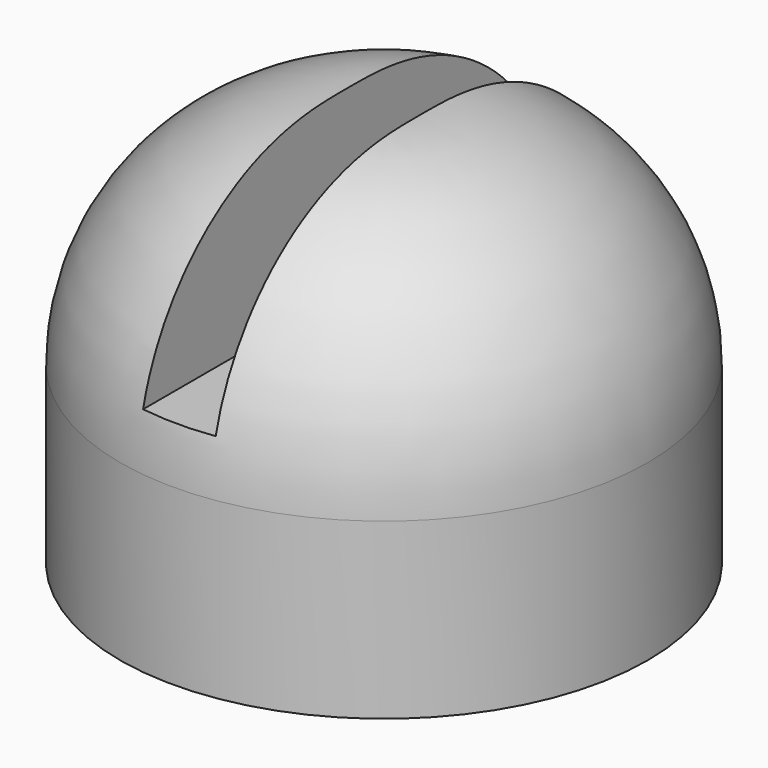
from build123d import *

# Parameters (mm, degrees)
F0_R      = 45.5235141672
F1_DEPTH  = 20
F2_DEPTH  = 50
F3_R      = 40
F4_W      = 12.5344563276
F4_H      = 31.0147441924
F5_DEPTH  = 100
F7_DEPTH  = 100
F8_R      = 2.5
F9_DEPTH  = 4
F10_R     = 2.5
F11_DEPTH = 4


with BuildPart() as f1:
    # F0 (on Top) → F1 (new body)
    with BuildSketch(Plane.XY):
        Circle(F0_R)
    extrude(amount=F1_DEPTH)

    # F2 (add): a face of the model
    f2_faces = [f1.faces().sort_by_distance(p)[0] for p in [
        (0, 0, 20),
    ]]
    extrude(f2_faces, amount=F2_DEPTH)

    # F3
    f3_edges = [f1.edges().sort_by_distance(p)[0] for p in [
        (-45.523514, 0, 70),
    ]]
    fillet(f3_edges, radius=F3_R)

    # F4 (on Front) → F5 (cut)
    with BuildSketch(Plane.XZ):
        with Locations((-0.0651595183, 54.6367447823)):
            Rectangle(F4_W, F4_H)
    extrude(amount=-F5_DEPTH, mode=Mode.SUBTRACT)

    # F6 (on face) → F7 (cut)
    with BuildSketch(Plane(origin=(0, 0, 0), x_dir=(-1, 0, 0), z_dir=(0, 1, 0))):
        with BuildLine():
            ThreePointArc((-5.5235141672, 70), (-5.8628036122, 69.9985610075), (-6.2020686455, 69.9942441336))
            Line((-6.2020686455, 69.9942441336), (-6.2020686455, 39.1293726861))
            Line((-6.2020686455, 39.1293726861), (6.3323876821, 39.1293726861))
            Line((6.3323876821, 39.1293726861), (6.3323876821, 69.9918207092))
            add(Edge.make_bspline(
                [(6.3323876821, 69.9918207092), (6.1301968719, 69.9959102152), (5.927978494, 69.9986367384), (5.7257463298, 70), (5.5235141672, 70)],
                knots=[0.6079316836, 0.6079316836, 0.6079316836, 0.6079316836, 0.6079316836, 1, 1, 1, 1, 1], degree=4))
            Line((5.5235141672, 70), (-5.5235141672, 70))
        make_face()
    extrude(amount=-F7_DEPTH, mode=Mode.SUBTRACT)

    # F8 (on face) → F9 (cut)
    with BuildSketch(Plane.YZ.offset(-6.3323876821)):
        with Locations((0, 46.6293726861)):
            Circle(F8_R)
    extrude(amount=-F9_DEPTH, mode=Mode.SUBTRACT)

    # F10 (on face) → F11 (cut)
    with BuildSketch(Plane(origin=(6.2020686455, 0, 0), x_dir=(0, -1, 0), z_dir=(-1, 0, 0))):
        with Locations((0, 46.6293726861)):
            Circle(F10_R)
    extrude(amount=-F11_DEPTH, mode=Mode.SUBTRACT)


solid = f1.part
